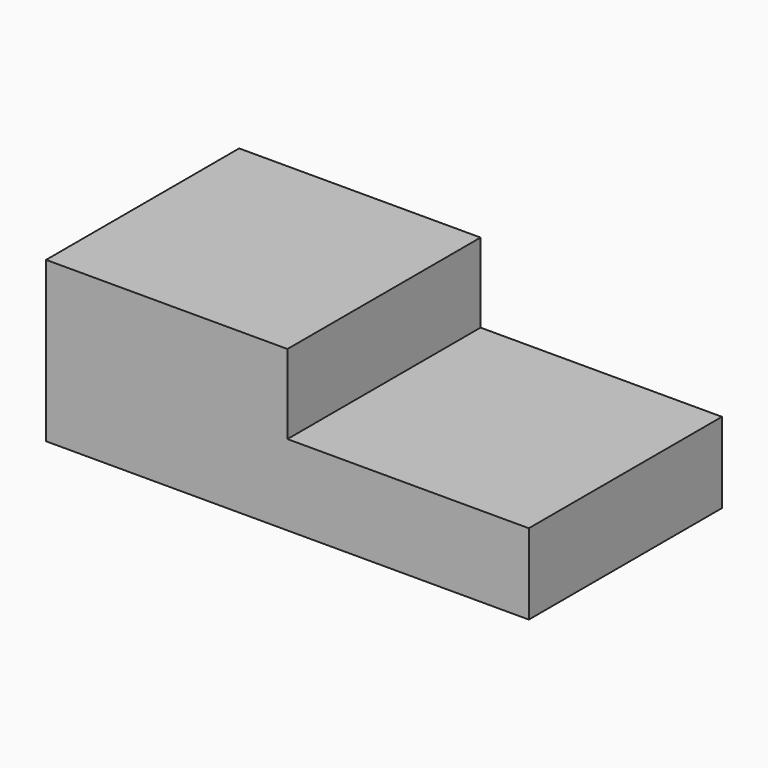
from build123d import *

# Parameters (mm, degrees)
F1_DEPTH = 76.2
F2_W     = 76.2
F2_H     = 25.4
F3_DEPTH = 76.2


with BuildPart() as f1:
    # F0 (on Front) → F1 (new body)
    with BuildSketch(Plane.XZ):
        Polygon((-76.2, 25.4), (-76.2, 0), (76.2, 0), (76.2, 25.4), (0, 25.4), align=None)
    extrude(amount=F1_DEPTH)

    # F2 (on Front) → F3 (join)
    with BuildSketch(Plane.XZ):
        with Locations((-38.1, 37.732552)):
            Rectangle(F2_W, F2_H)
    extrude(amount=F3_DEPTH)


solid = f1.part
